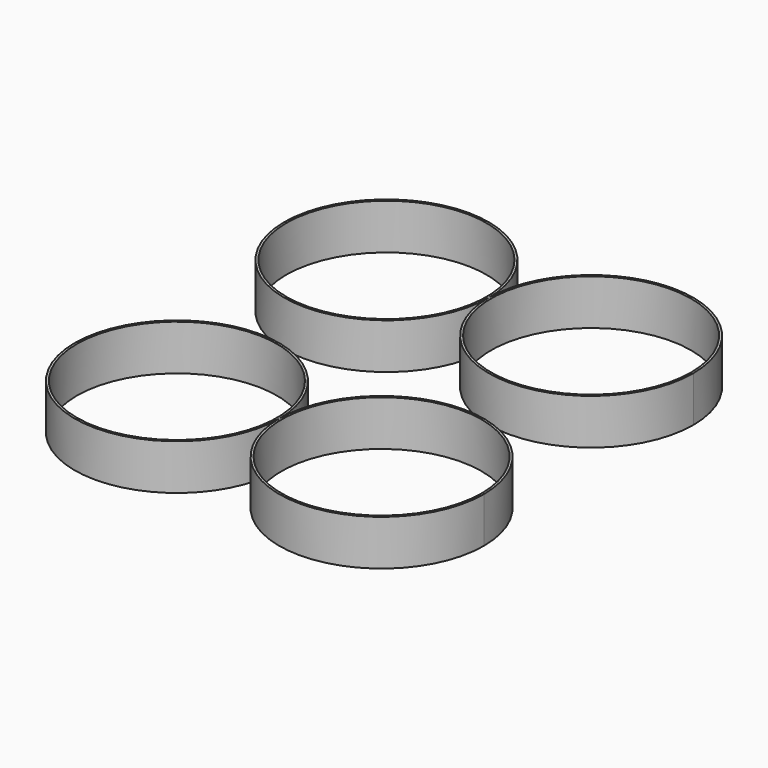
from build123d import *

# Parameters (mm, degrees)
F0_R     = 22.471644
F0_R_2   = 21.971644
F1_DEPTH = 10


with BuildPart() as f1:
    # F0 (on Top) → F1 (new body)
    with BuildSketch(Plane.XY):
        with Locations((22.471644, 28.762393)):
            Circle(F0_R)
        with Locations((22.471644, 28.762393)):
            Circle(F0_R_2, mode=Mode.SUBTRACT)
    extrude(amount=F1_DEPTH)

    # F2: F1 across plane


with BuildPart() as f1_1:
    add(f1.part)
    add(f1.part.mirror(Plane.YZ))


with BuildPart() as f3_1:
    # F3: instance of F1
    add(f1_1.part.mirror(Plane.XZ))


solid = Compound([f1_1.part, f3_1.part])
